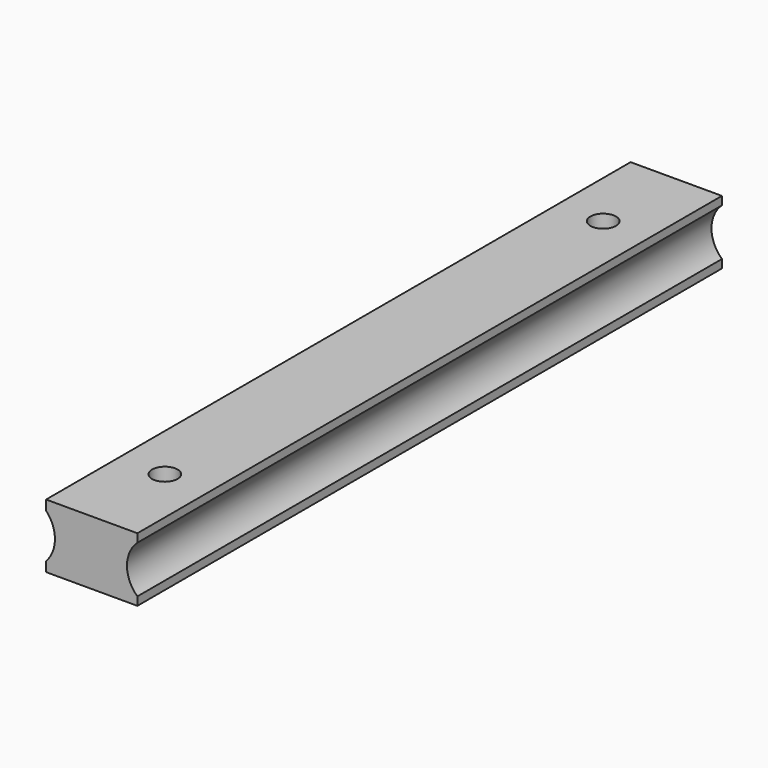
from build123d import *

# Parameters (mm, degrees)
SKETCH045_W     = 10
SKETCH045_H     = 80
PAD018_DEPTH    = 7
SKETCH046_R     = 1.4
POCKET026_DEPTH = 8
SKETCH047_R     = 3.5
POCKET027_DEPTH = 80.001


with BuildPart() as part:
    # Sketch045 → Pad018 (new body)
    with BuildSketch(Plane.XY):
        with Locations((100, 0)):
            Rectangle(SKETCH045_W, SKETCH045_H)
    extrude(amount=PAD018_DEPTH)

    # Sketch046 (on Face5 of Pad018) → Pocket026 (cut)
    with BuildSketch(Plane(origin=(0, 0, 0), x_dir=(1, 0, 0), z_dir=(0, 0, -1))):
        with Locations((100, 30)):
            Circle(SKETCH046_R)
        with Locations((100, -30)):
            Circle(SKETCH046_R)
    extrude(amount=-POCKET026_DEPTH, mode=Mode.SUBTRACT)

    # Sketch047 (on Face6 of Pocket026) → Pocket027 (cut, through all)
    with BuildSketch(Plane.XZ.offset(40)):
        with Locations((107.358391, 3.5)):
            Circle(SKETCH047_R)
        with Locations((92.471756, 3.5)):
            Circle(SKETCH047_R)
    extrude(amount=-POCKET027_DEPTH, mode=Mode.SUBTRACT)


with BuildPart() as part_1:
    # Body006 placement: moved
    add(part.part.moved(Location((0, 0, 36.5))))


solid = part_1.part
